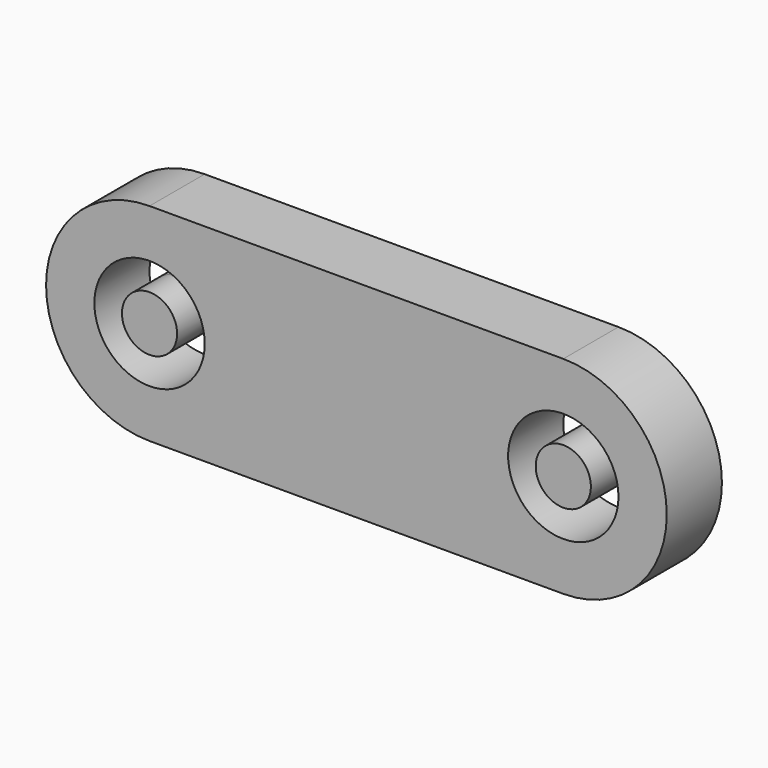
from build123d import *

# Parameters (mm, degrees)
F0_R     = 101.6
F0_R_2   = 50.8
F1_DEPTH = 63.5


with BuildPart() as f1:
    # F0 (on Front) → F1 (new body, symmetric)
    with BuildSketch(Plane.XZ):
        with BuildLine():
            ThreePointArc((381, -190.5), (571.5, 0), (381, 190.5))
            Line((381, 190.5), (-381, 190.5))
            ThreePointArc((-381, 190.5), (-571.5, 0), (-381, -190.5))
            Line((-381, -190.5), (381, -190.5))
        make_face()
        with Locations((-381, 0)):
            Circle(F0_R, mode=Mode.SUBTRACT)
        with Locations((381, 0)):
            Circle(F0_R, mode=Mode.SUBTRACT)
        with Locations((-381, 0)):
            Circle(F0_R_2)
        with Locations((381, 0)):
            Circle(F0_R_2)
    extrude(amount=F1_DEPTH, both=True)


solid = f1.part
